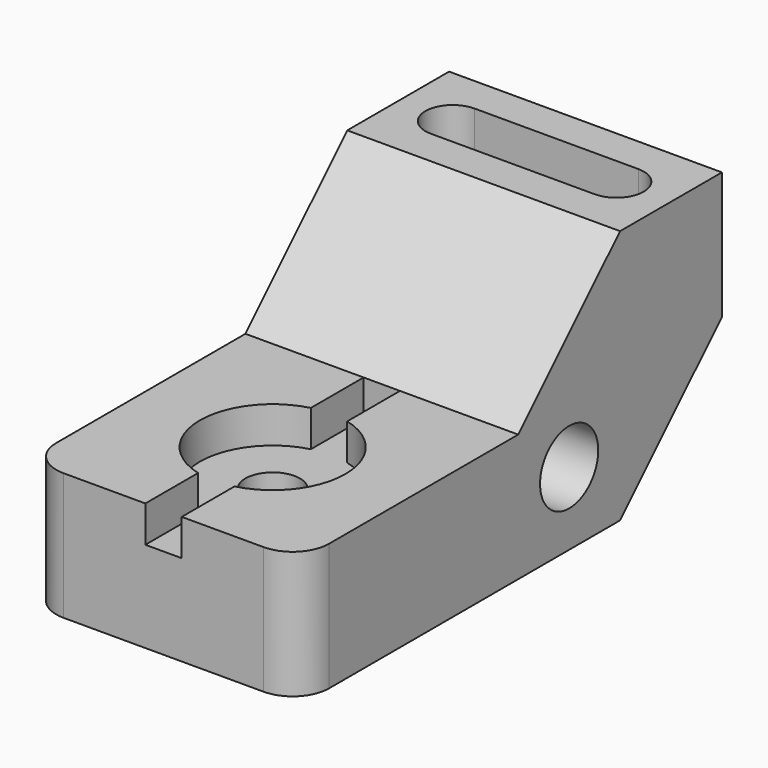
from build123d import *

# Parameters (mm, degrees)
F1_DEPTH       = 76.2
F2_R           = 10.16
F4_DEPTH       = 76.201
F6_D           = 15.24
F6_CBORE_D     = 40.64
F6_CBORE_DEPTH = 10.16
F7_W           = 10.16
F7_H           = 76.2
F8_DEPTH       = 10.16
F9_DEPTH       = 27.94
F10_R          = 10.16


with BuildPart() as f1:
    # F0 (on Right) → F1 (new body)
    with BuildSketch(Plane.YZ):
        Polygon((0, 35.56), (0, 0), (111.76, 0), (147.32, 35.56), (147.32, 71.12), (111.76, 71.12), (76.2, 35.56), align=None)
    extrude(amount=F1_DEPTH)

    # F2 (on face) → F4 (cut, through all)
    with BuildSketch(Plane.YZ.offset(76.2)):
        with Locations((93.98, 20.32)):
            Circle(F2_R)
    extrude(amount=-F4_DEPTH, mode=Mode.SUBTRACT)

    # F6 (through all)
    with Locations(Plane.XY.offset(35.56)):
        with Locations((38.1, 38.1)):
            CounterBoreHole(F6_D / 2, F6_CBORE_D / 2, F6_CBORE_DEPTH)

    # F7 (on face) → F8 (cut)
    with BuildSketch(Plane.XY.offset(35.56)):
        with Locations((38.1, 38.1)):
            Rectangle(F7_W, F7_H)
        with Locations((38.1, 38.1)):
            Rectangle(F7_W, F7_H)
    extrude(amount=-F8_DEPTH, mode=Mode.SUBTRACT)

    # F3 (on face) → F9 (cut)
    with BuildSketch(Plane.XY.offset(71.12)):
        with BuildLine():
            Line((60.96, 137.16), (15.24, 137.16))
            ThreePointArc((15.24, 137.16), (7.62, 129.54), (15.24, 121.92))
            Line((15.24, 121.92), (60.96, 121.92))
            ThreePointArc((60.96, 121.92), (68.58, 129.54), (60.96, 137.16))
        make_face()
    extrude(amount=-F9_DEPTH, mode=Mode.SUBTRACT)

    # F10
    f10_edges = [f1.edges().sort_by_distance(p)[0] for p in [
        (76.2, 0, 17.78),
        (0, 0, 17.78),
    ]]
    fillet(f10_edges, radius=F10_R)


solid = f1.part
